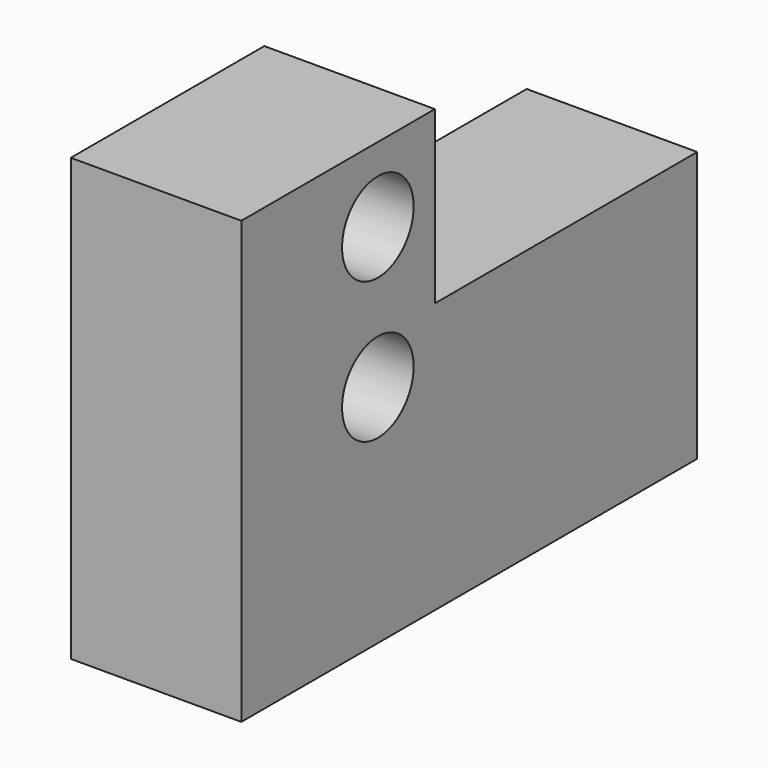
from build123d import *

# Parameters (mm, degrees)
F0_W     = 36.0215455294
F0_H     = 25.4788585007
F1_DEPTH = 25.4
F2_R     = 6.6627338529
F3_DEPTH = 25


with BuildPart() as f1:
    # F0 (on Right) → F1 (new body)
    with BuildSketch(Plane.YZ):
        Polygon((0, 40.2273051441), (0, 0), (84.8643258214, 0), (84.8643258214, 40.2273051441), (36.0215455294, 40.2273051441), align=None)
        with Locations((18.0107727647, 52.9667343944)):
            Rectangle(F0_W, F0_H)
    extrude(amount=F1_DEPTH)

    # F2 (on face) → F3 (cut)
    with BuildSketch(Plane.YZ.offset(25.4)):
        with Locations((25.4135299474, 33.5645712912)):
            Circle(F2_R)
        with Locations((25.4135299474, 54.5645712912)):
            Circle(F2_R)
    extrude(amount=-F3_DEPTH, mode=Mode.SUBTRACT)


solid = f1.part
